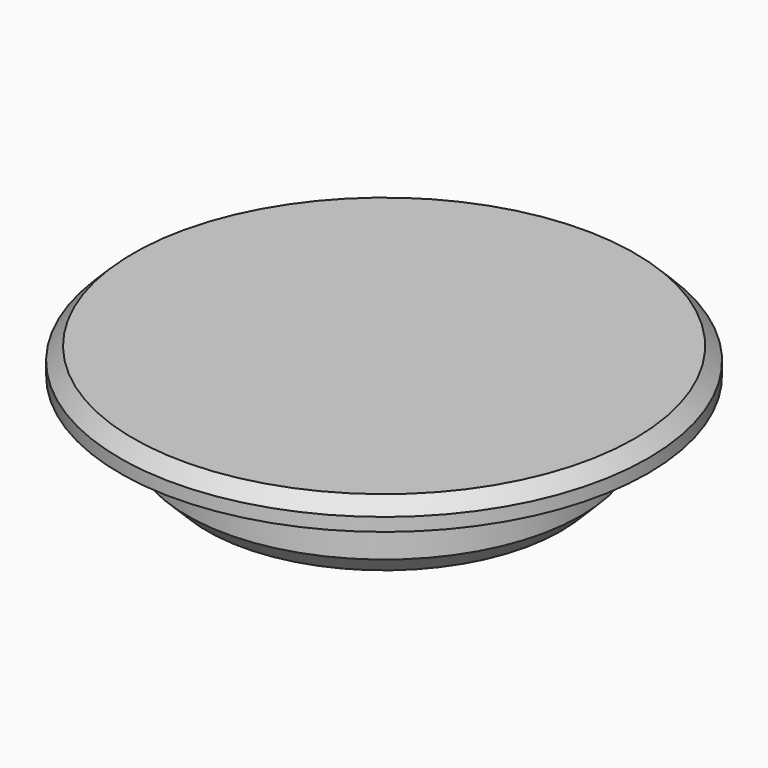
from build123d import *

# Parameters (mm, degrees)
F0_R     = 7.45
F1_DEPTH = 3
F2_R     = 10
F2_R_2   = 7.45
F3_DEPTH = 1
F4_SIZE  = 0.75
F5_SIZE  = 0.5


with BuildPart() as f1:
    # F0 (on Top) → F1 (new body)
    with BuildSketch(Plane.XY):
        Circle(F0_R)
    extrude(amount=F1_DEPTH)

    # F2 (on face) → F3 (join)
    with BuildSketch(Plane.XY.offset(3)):
        Circle(F2_R)
        Circle(F2_R_2, mode=Mode.SUBTRACT)
        Circle(F2_R_2)
    extrude(amount=F3_DEPTH)

    # F4
    f4_edges = [f1.edges().sort_by_distance(p)[0] for p in [
        (-7.45, 0, 0),
    ]]
    chamfer(f4_edges, length=F4_SIZE)

    # F5
    f5_edges = [f1.edges().sort_by_distance(p)[0] for p in [
        (-10, 0, 4),
    ]]
    chamfer(f5_edges, length=F5_SIZE)


solid = f1.part
